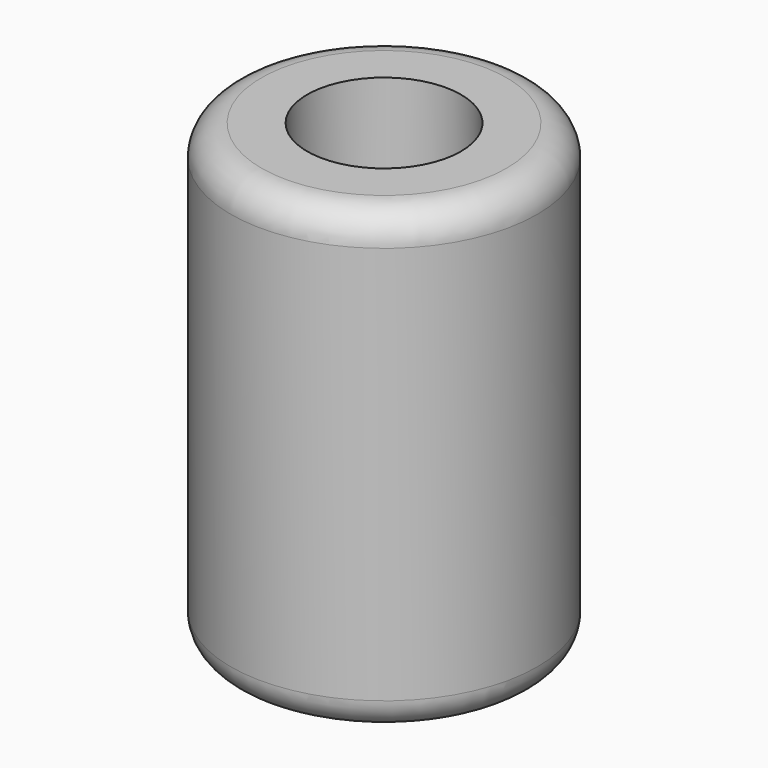
from build123d import *

# Parameters (mm, degrees)
F0_R           = 25.4
F1_DEPTH       = 76.2
F3_D           = 17.5
F3_CBORE_D     = 25.5
F3_CBORE_DEPTH = 16
F4_R           = 5.08


with BuildPart() as f1:
    # F0 (on Top) → F1 (new body)
    with BuildSketch(Plane.XY):
        Circle(F0_R)
    extrude(amount=F1_DEPTH)

    # F3 (through all)
    with Locations(Plane.XY.offset(76.2)):
        with Locations((0, 0)):
            CounterBoreHole(F3_D / 2, F3_CBORE_D / 2, F3_CBORE_DEPTH)

    # F4
    f4_edges = [f1.edges().sort_by_distance(p)[0] for p in [
        (-25.4, 0, 76.2),
        (-25.4, 0, 0),
    ]]
    fillet(f4_edges, radius=F4_R)


solid = f1.part
